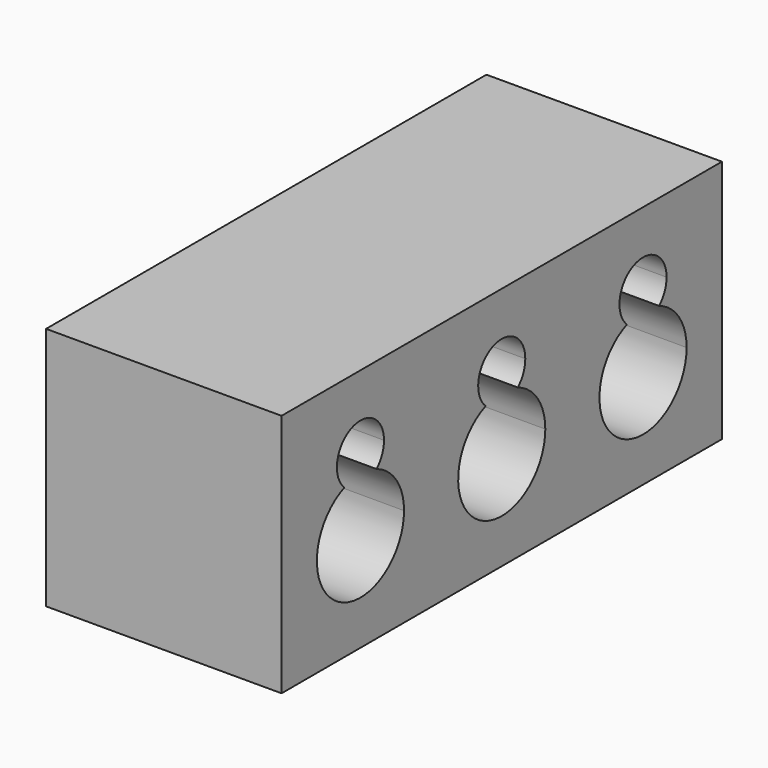
from build123d import *

# Parameters (mm, degrees)
F0_W     = 18.7
F0_H     = 8.3
F1_DEPTH = 8
F2_W     = 2.170454
F2_H     = 15
F3_DEPTH = 1.8


with BuildPart() as f1:
    # F0 (on Right) → F1 (new body)
    with BuildSketch(Plane.YZ):
        with Locations((2.739331, -7.789515)):
            Rectangle(F0_W, F0_H)
        with BuildLine():
            ThreePointArc((-2.577876, -6.870127), (-1.730037, -7.550445), (-1.410669, -8.589515))
            ThreePointArc((-1.410669, -8.589515), (-4.299739, -10.120146), (-3.943462, -6.870127))
            ThreePointArc((-3.943462, -6.870127), (-3.65892, -5.222238), (-2.260669, -6.139515))
            ThreePointArc((-2.260669, -6.139515), (-2.343392, -6.537766), (-2.577876, -6.870127))
        make_face(mode=Mode.SUBTRACT)
        with BuildLine():
            ThreePointArc((3.422124, -6.870127), (4.269963, -7.550445), (4.589331, -8.589515))
            ThreePointArc((4.589331, -8.589515), (1.700261, -10.120146), (2.056538, -6.870127))
            ThreePointArc((2.056538, -6.870127), (2.34108, -5.222238), (3.739331, -6.139515))
            ThreePointArc((3.739331, -6.139515), (3.656608, -6.537766), (3.422124, -6.870127))
        make_face(mode=Mode.SUBTRACT)
        with BuildLine():
            ThreePointArc((9.422124, -6.870127), (10.269963, -7.550445), (10.589331, -8.589515))
            ThreePointArc((10.589331, -8.589515), (7.700261, -10.120146), (8.056538, -6.870127))
            ThreePointArc((8.056538, -6.870127), (8.34108, -5.222238), (9.739331, -6.139515))
            ThreePointArc((9.739331, -6.139515), (9.656608, -6.537766), (9.422124, -6.870127))
        make_face(mode=Mode.SUBTRACT)
    extrude(amount=F1_DEPTH)

    # F2 (on face) → F3 (join)
    with BuildSketch(Plane.XY.offset(-3.639515)):
        with Locations((4, 2.739331)):
            Rectangle(F2_W, F2_H)
    extrude(amount=-F3_DEPTH)


solid = f1.part
